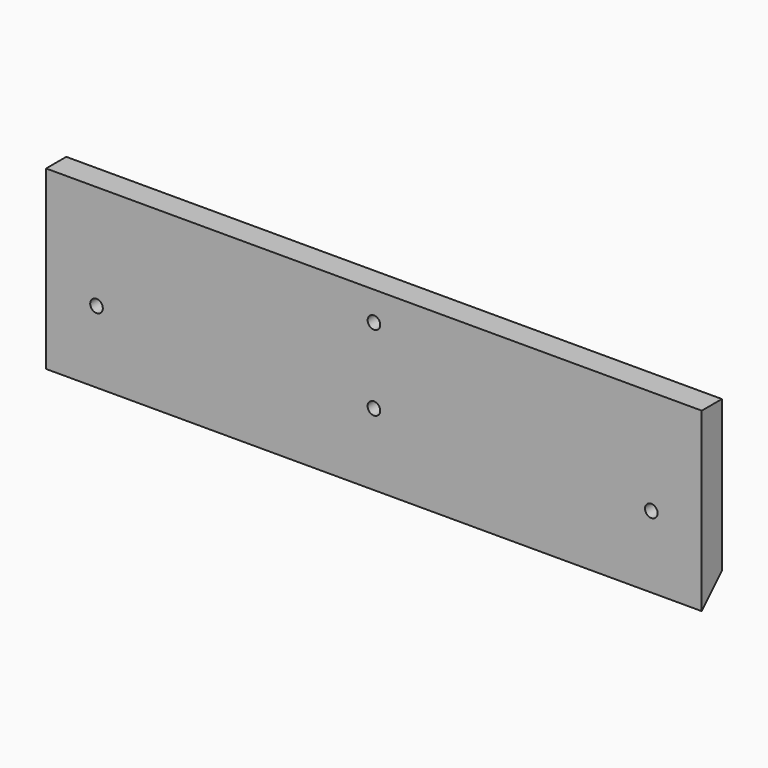
from build123d import *

# Parameters (mm, degrees)
F1_DEPTH       = 330.2
F3_D           = 6.35
F3_CSINK_D     = 12.7
F3_CSINK_ANGLE = 90


with BuildPart() as f1:
    # F0 (on Right) → F1 (new body)
    with BuildSketch(Plane.YZ):
        Polygon((-128.76356, 88.9), (-141.46356, 88.9), (-141.46356, 0), (-128.76356, 12.7), align=None)
    extrude(amount=F1_DEPTH)

    # F3 (through all)
    with Locations(Plane(origin=(0, -128.76356, 0), x_dir=(-1, 0, 0), z_dir=(0, 1, 0))):
        with Locations((-165.1, 36.195), (-165.1, 74.295), (-304.8, 36.195), (-25.4, 36.195), (38.1, 36.195), (-431.8, 36.195), (-368.3, 36.195), (38.1, 36.195)):
            CounterSinkHole(F3_D / 2, F3_CSINK_D / 2, counter_sink_angle=F3_CSINK_ANGLE)


solid = f1.part
